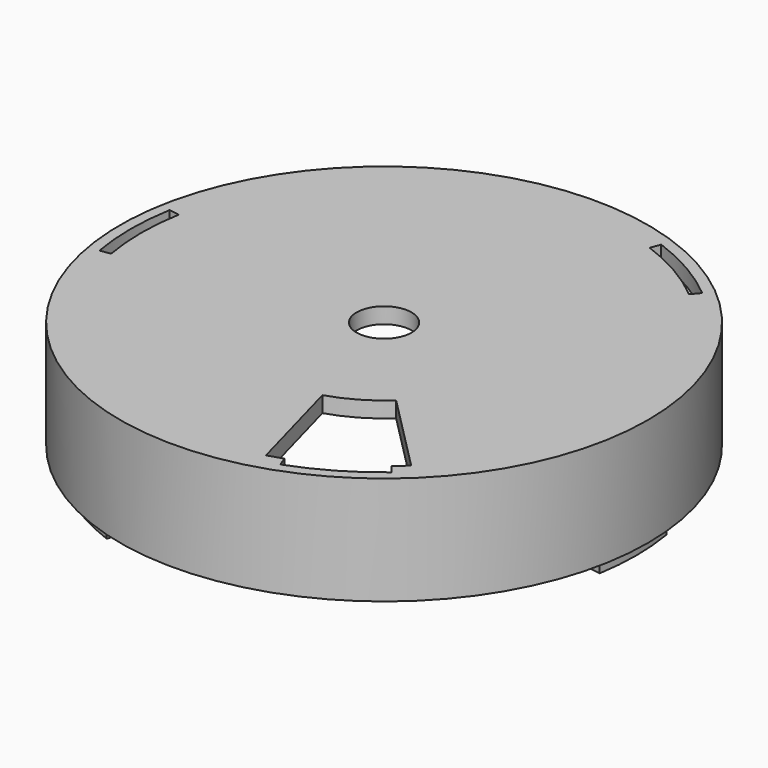
from build123d import *

# Parameters (mm, degrees)
SKETCH_R              = 50
PAD_DEPTH             = 3
SKETCH004_R           = 5.2
POCKET001_DEPTH       = 3.001
POCKET002_DEPTH       = 3.001
SKETCH006_R           = 50
SKETCH006_R_2         = 46
PAD001_DEPTH          = 17.5
POCKET003_DEPTH       = 3
POLARPATTERN001_COUNT = 3
PAD002_DEPTH          = 2.8
POLARPATTERN002_COUNT = 3


with BuildPart() as part:
    # Sketch → Pad (new body)
    with BuildSketch(Plane.XY):
        Circle(SKETCH_R)
    extrude(amount=PAD_DEPTH)

    # Sketch004 (on DatumPlane) → Pocket001 (cut, through all)
    with BuildSketch(Plane.XY.offset(3)):
        Circle(SKETCH004_R)
    extrude(amount=-POCKET001_DEPTH, mode=Mode.SUBTRACT)

    # Sketch005 → Pocket002 (cut, through all)
    with BuildSketch(Plane.XY):
        with BuildLine():
            ThreePointArc((12.9390240745, -44.1427418269), (23, -39.8371685741), (31.7592237776, -33.2768944622))
            Line((16.9700186383, -18.3580627359), (31.7592237776, -33.2768944622))
            ThreePointArc((7.4135393744, -23.8754986114), (12.5, -21.6506350946), (16.9700186383, -18.3580627359))
            Line((12.9390240745, -44.1427418269), (7.4135393744, -23.8754986114))
        make_face()
    extrude(amount=POCKET002_DEPTH, mode=Mode.SUBTRACT)

    # Sketch006 → Pad001 (join)
    with BuildSketch(Plane.XY):
        Circle(SKETCH006_R)
        Circle(SKETCH006_R_2, mode=Mode.SUBTRACT)
    extrude(amount=-PAD001_DEPTH)

    # Sketch007 (on DatumPlane) → Pocket003 (cut)
    with BuildSketch(Plane.XY.offset(3)):
        with BuildLine():
            ThreePointArc((-45.3011566386, 7.9878161727), (-46, 0), (-45.3011566386, -7.9878161727))
            Line((-45.3011566386, -7.9878161727), (-47.2707721446, -8.335112528))
            ThreePointArc((-47.2707721446, 8.335112528), (-48, 0), (-47.2707721446, -8.335112528))
            Line((-47.2707721446, 8.335112528), (-45.3011566386, 7.9878161727))
        make_face()
    pocket003 = extrude(amount=-POCKET003_DEPTH, mode=Mode.SUBTRACT)

    # PolarPattern001: Pocket003 ×3 about axis
    polarpattern001_axis = Axis((0, 0, 3), (0, 0, 1))
    for i in range(1, POLARPATTERN001_COUNT):
        add(pocket003.rotate(polarpattern001_axis, i * 360 / POLARPATTERN001_COUNT), mode=Mode.SUBTRACT)

    # Sketch008 (on DatumPlane) → Pad002 (join)
    with BuildSketch(Plane.XY.offset(-17.5)):
        with BuildLine():
            ThreePointArc((45.3691376707, -7.5921898696), (46, 0), (45.3691376707, 7.5921898696))
            Line((47.1444517535, 7.8892755601), (45.3691376707, 7.5921898696))
            ThreePointArc((47.1444517535, -7.8892755601), (47.8, 0), (47.1444517535, 7.8892755601))
            Line((45.3691376707, -7.5921898696), (47.1444517535, -7.8892755601))
        make_face()
    pad002 = extrude(amount=-PAD002_DEPTH)

    # PolarPattern002: Pad002 ×3 about axis
    polarpattern002_axis = Axis((0, 0, -17.5), (0, 0, 1))
    for i in range(1, POLARPATTERN002_COUNT):
        add(pad002.rotate(polarpattern002_axis, i * 360 / POLARPATTERN002_COUNT))


solid = part.part
